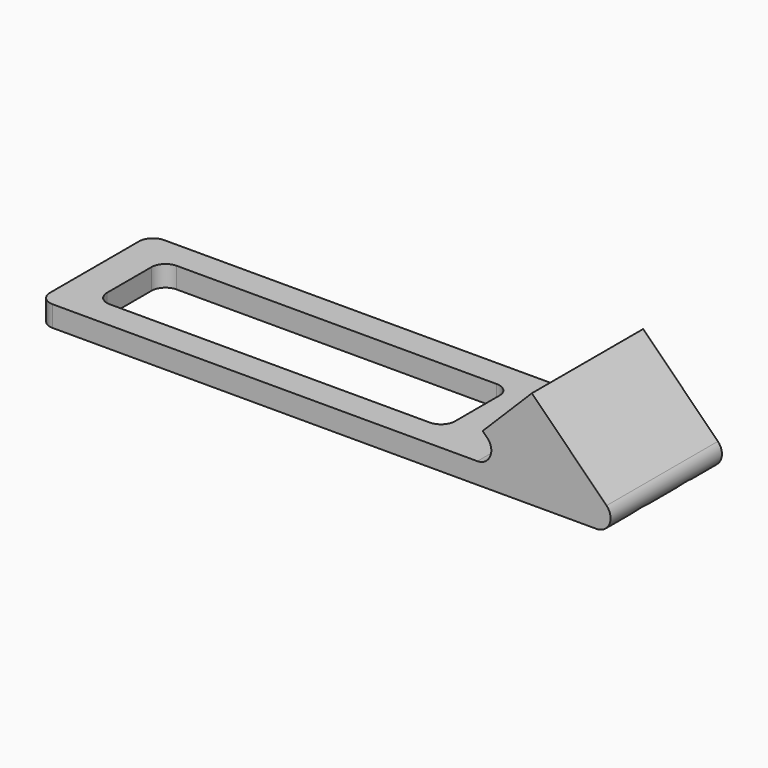
from build123d import *

# Parameters (mm, degrees)
F1_DEPTH = 10
F2_R     = 3.25
F3_DEPTH = 25
F5_DEPTH = 3


with BuildPart() as f1:
    # F0 (on Front) → F1 (new body, symmetric)
    with BuildSketch(Plane.XZ):
        with BuildLine():
            Line((0, 3), (0, 0))
            Line((0, 0), (20.171573, 0))
            ThreePointArc((20.171573, 0), (22.019332, 1.234633), (21.585786, 3.414214))
            Line((21.585786, 3.414214), (10.857864, 14.142136))
            Line((10.857864, 14.142136), (3.786797, 7.071068))
            Line((3.786797, 7.071068), (4.443651, 6.414214))
            ThreePointArc((4.443651, 6.414214), (4.877196, 4.234633), (3.029437, 3))
            Line((3.029437, 3), (0, 3))
        make_face()
    extrude(amount=F1_DEPTH, both=True)

    # F2 (on face) → F3 (cut)
    with BuildSketch(Plane(origin=(-1.642136, 0, 1.642136), x_dir=(0, -1, 0), z_dir=(-0.707107, 0, 0.707107))):
        with Locations((-4, 12.67767)):
            Circle(F2_R)
        with Locations((4, 12.67767)):
            Circle(F2_R)
    extrude(amount=-F3_DEPTH, mode=Mode.SUBTRACT)

    # F4 (on Top) → F5 (join)
    with BuildSketch(Plane.XY):
        with BuildLine():
            Line((0, -10), (0, 10))
            Line((0, 10), (-58, 10))
            ThreePointArc((-58, 10), (-59.414214, 9.414214), (-60, 8))
            Line((-60, 8), (-60, -8))
            ThreePointArc((-60, -8), (-59.414214, -9.414214), (-58, -10))
            Line((-58, -10), (0, -10))
        make_face()
        with BuildLine():
            Line((-53, 6), (-7, 6))
            ThreePointArc((-7, 6), (-5.585786, 5.414214), (-5, 4))
            Line((-5, 4), (-5, -4))
            ThreePointArc((-5, -4), (-5.585786, -5.414214), (-7, -6))
            Line((-7, -6), (-53, -6))
            ThreePointArc((-53, -6), (-54.414214, -5.414214), (-55, -4))
            Line((-55, -4), (-55, 4))
            ThreePointArc((-55, 4), (-54.414214, 5.414214), (-53, 6))
        make_face(mode=Mode.SUBTRACT)
    extrude(amount=F5_DEPTH)


solid = f1.part
